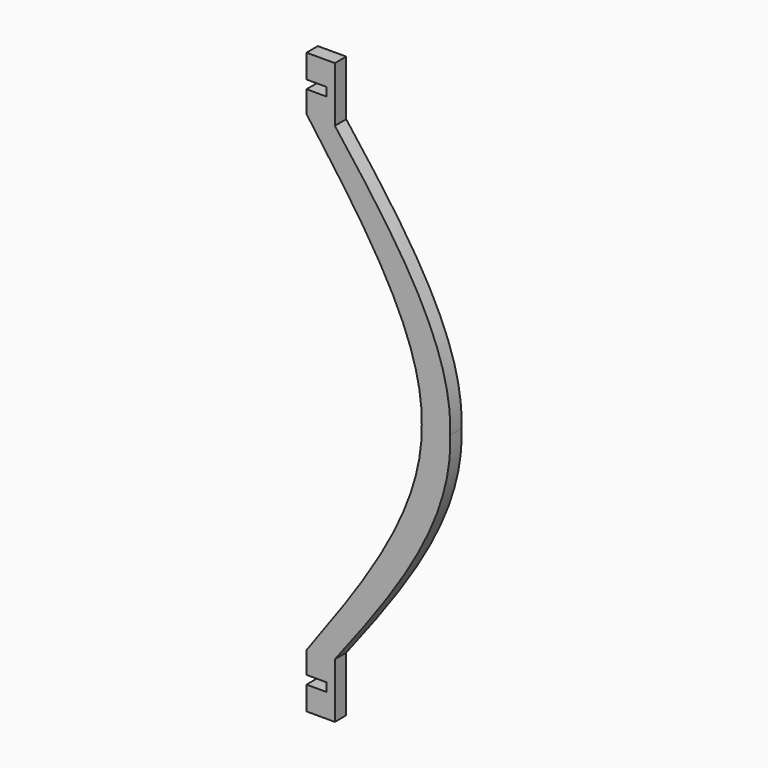
from build123d import *

# Parameters (mm, degrees)
F1_DEPTH = 5


with BuildPart() as f1:
    # F0 (on Front) → F1 (new body)
    with BuildSketch(Plane.XZ):
        with BuildLine():
            Line((0, 86.0722920214), (0, 83.1359768161))
            add(Edge.make_bspline(
                [(0, 83.1359768161), (20.5173165086, 55.084787206), (41.0754663978, 27.1356787804), (40.6066375942, 0)],
                knots=[0, 0, 0, 0, 0.5088015133, 0.5088015133, 0.5088015133, 0.5088015133], degree=3))
            Line((40.6066375942, 0), (50.6066375942, 0))
            add(Edge.make_bspline(
                [(50.6066375942, 0), (49.5222940802, 28.6957537753), (25.1622773696, 57.3864314744), (0, 86.0722920214)],
                knots=[0.4899646554, 0.4899646554, 0.4899646554, 0.4899646554, 1, 1, 1, 1], degree=3))
        make_face()
        with BuildLine():
            Line((0, 90.8148214221), (0, 86.0722920214))
            add(Edge.make_bspline(
                [(50.6066375942, 0), (49.5222940802, 28.6957537753), (25.1622773696, 57.3864314744), (0, 86.0722920214)],
                knots=[0.4899646554, 0.4899646554, 0.4899646554, 0.4899646554, 1, 1, 1, 1], degree=3))
            add(Edge.make_bspline(
                [(10, 82.7135898097), (31.2101351071, 55.137746318), (51.6483104933, 27.5665309422), (50.6066375942, 0)],
                knots=[0, 0, 0, 0, 0.4899646554, 0.4899646554, 0.4899646554, 0.4899646554], degree=3))
            Line((10, 82.7135898097), (10, 102.1432460269))
            Line((10, 102.1432460269), (0, 102.1432460269))
            Line((0, 102.1432460269), (0, 93.8148214221))
            Line((0, 93.8148214221), (7, 93.8148214221))
            Line((7, 93.8148214221), (7, 90.8148214221))
            Line((7, 90.8148214221), (0, 90.8148214221))
        make_face()
        with BuildLine():
            Line((50.6066375942, 0), (40.6066375942, 0))
            add(Edge.make_bspline(
                [(0, -83.1359768161), (20.5173165086, -55.084787206), (41.0754663978, -27.1356787804), (40.6066375942, 0)],
                knots=[0, 0, 0, 0, 0.5088015133, 0.5088015133, 0.5088015133, 0.5088015133], degree=3))
            Line((0, -83.1359768161), (0, -86.0722920214))
            add(Edge.make_bspline(
                [(50.6066375942, 0), (49.5222940802, -28.6957537753), (25.1622773696, -57.3864314744), (0, -86.0722920214)],
                knots=[0.4899646554, 0.4899646554, 0.4899646554, 0.4899646554, 1, 1, 1, 1], degree=3))
        make_face()
        with BuildLine():
            add(Edge.make_bspline(
                [(10, -82.7135898097), (31.2101351071, -55.137746318), (51.6483104933, -27.5665309422), (50.6066375942, 0)],
                knots=[0, 0, 0, 0, 0.4899646554, 0.4899646554, 0.4899646554, 0.4899646554], degree=3))
            add(Edge.make_bspline(
                [(50.6066375942, 0), (49.5222940802, -28.6957537753), (25.1622773696, -57.3864314744), (0, -86.0722920214)],
                knots=[0.4899646554, 0.4899646554, 0.4899646554, 0.4899646554, 1, 1, 1, 1], degree=3))
            Line((0, -86.0722920214), (0, -90.8148214221))
            Line((0, -90.8148214221), (7, -90.8148214221))
            Line((7, -90.8148214221), (7, -93.8148214221))
            Line((7, -93.8148214221), (0, -93.8148214221))
            Line((0, -93.8148214221), (0, -102.1432460269))
            Line((0, -102.1432460269), (10, -102.1432460269))
            Line((10, -102.1432460269), (10, -82.7135898097))
        make_face()
    extrude(amount=F1_DEPTH)


solid = f1.part
